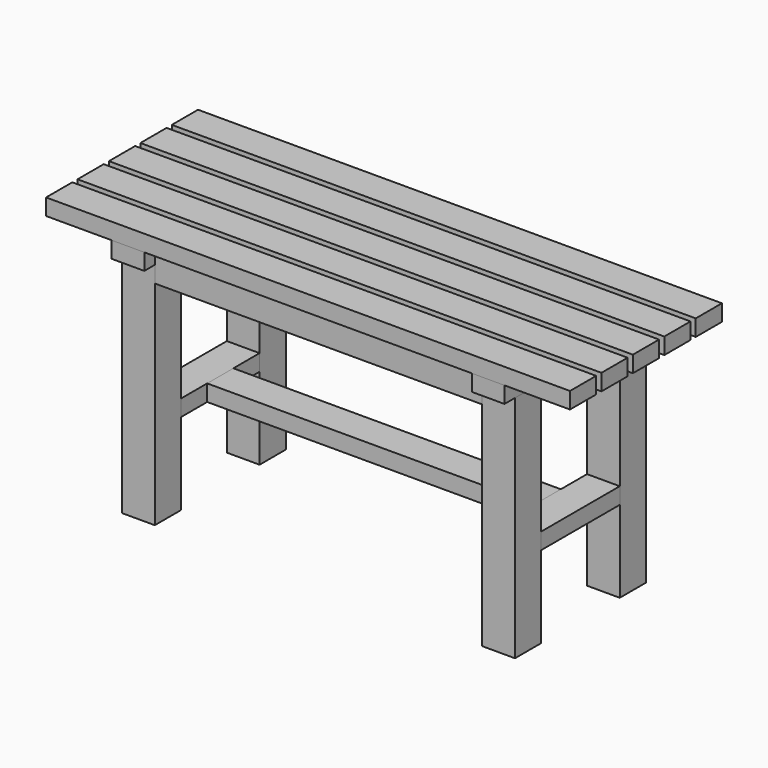
from build123d import *

# Parameters (mm, degrees)
F0_W      = 800
F0_H      = 50
F1_DEPTH  = 25
F2_W      = 50
F2_H      = 240
F2_H_2    = 50
F3_DEPTH  = 25
F4_W      = 50
F4_H      = 50
F5_DEPTH  = 350
F6_W      = 50
F6_H      = 50
F7_DEPTH  = 350
F8_W      = 50
F8_H      = 150
F9_DEPTH  = 25
F10_W     = 50
F10_H     = 150
F11_DEPTH = 25
F12_W     = 500.7233977318
F12_H     = 25
F13_DEPTH = 25
F15_W     = 25
F15_H     = 25
F16_DEPTH = 500


with BuildPart() as f1:
    # F0 (on Top) → F1 (new body)
    with BuildSketch(Plane.XY):
        with Locations((400, 265)):
            Rectangle(F0_W, F0_H)
    extrude(amount=F1_DEPTH)


with BuildPart() as f1b:
    # F0 (on Top) → F1, piece 2 (new body)
    with BuildSketch(Plane.XY):
        with Locations((400, 205)):
            Rectangle(F0_W, F0_H)
    extrude(amount=F1_DEPTH)


with BuildPart() as f1c:
    # F0 (on Top) → F1, piece 3 (new body)
    with BuildSketch(Plane.XY):
        with Locations((400, 145)):
            Rectangle(F0_W, F0_H)
    extrude(amount=F1_DEPTH)


with BuildPart() as f1d:
    # F0 (on Top) → F1, piece 4 (new body)
    with BuildSketch(Plane.XY):
        with Locations((400, 85)):
            Rectangle(F0_W, F0_H)
    extrude(amount=F1_DEPTH)


with BuildPart() as f1e:
    # F0 (on Top) → F1, piece 5 (new body)
    with BuildSketch(Plane.XY):
        with Locations((400, 25)):
            Rectangle(F0_W, F0_H)
    extrude(amount=F1_DEPTH)


with BuildPart() as f3:
    # F2 (on face) → F3 (new body)
    with BuildSketch(Plane(origin=(0, 0, 0), x_dir=(1, 0, 0), z_dir=(0, 0, -1))):
        with Locations((125, -170)):
            Rectangle(F2_W, F2_H)
        with Locations((125, -25)):
            Rectangle(F2_W, F2_H_2)
    extrude(amount=F3_DEPTH)


with BuildPart() as f3b:
    # F2 (on face) → F3, piece 2 (new body)
    with BuildSketch(Plane(origin=(0, 0, 0), x_dir=(1, 0, 0), z_dir=(0, 0, -1))):
        with Locations((675, -25)):
            Rectangle(F2_W, F2_H_2)
        with Locations((675, -170)):
            Rectangle(F2_W, F2_H)
    extrude(amount=F3_DEPTH)


with BuildPart() as f5:
    # F4 (on face) → F5 (new body)
    with BuildSketch(Plane(origin=(0, 0, -25), x_dir=(1, 0, 0), z_dir=(0, 0, -1))):
        with Locations((125, -245)):
            Rectangle(F4_W, F4_H)
    extrude(amount=F5_DEPTH)


with BuildPart() as f5b:
    # F4 (on face) → F5, piece 2 (new body)
    with BuildSketch(Plane(origin=(0, 0, -25), x_dir=(1, 0, 0), z_dir=(0, 0, -1))):
        with Locations((125, -45)):
            Rectangle(F4_W, F4_H)
    extrude(amount=F5_DEPTH)


with BuildPart() as f7:
    # F6 (on face) → F7 (new body)
    with BuildSketch(Plane(origin=(0, 0, -25), x_dir=(1, 0, 0), z_dir=(0, 0, -1))):
        with Locations((675, -45)):
            Rectangle(F6_W, F6_H)
    extrude(amount=F7_DEPTH)


with BuildPart() as f7b:
    # F6 (on face) → F7, piece 2 (new body)
    with BuildSketch(Plane(origin=(0, 0, -25), x_dir=(1, 0, 0), z_dir=(0, 0, -1))):
        with Locations((675, -245)):
            Rectangle(F6_W, F6_H)
    extrude(amount=F7_DEPTH)


with BuildPart() as f9:
    # F8 (on face) → F9 (new body)
    with BuildSketch(Plane(origin=(0, 0, -375), x_dir=(1, 0, 0), z_dir=(0, 0, -1))):
        with Locations((675, -145)):
            Rectangle(F8_W, F8_H)
    extrude(amount=F9_DEPTH)


with BuildPart() as f11:
    # F10 (on face) → F11 (new body)
    with BuildSketch(Plane(origin=(0, 0, -375), x_dir=(1, 0, 0), z_dir=(0, 0, -1))):
        with Locations((125, -145)):
            Rectangle(F10_W, F10_H)
    extrude(amount=F11_DEPTH)


with BuildPart() as f13:
    # F12 (on face) → F13 (new body)
    with BuildSketch(Plane(origin=(0, 0, -400), x_dir=(1, 0, 0), z_dir=(0, 0, -1))):
        with Locations((400.3616988659, -132.5)):
            Rectangle(F12_W, F12_H)
        with Locations((400.3616988659, -157.5)):
            Rectangle(F12_W, F12_H)
    extrude(amount=-F13_DEPTH)


with BuildPart() as f11_1:
    # F14: moved
    add(f11.part.moved(Location((0, 0, 150))))


with BuildPart() as f13_1:
    # F14: moved
    add(f13.part.moved(Location((0, 0, 150))))


with BuildPart() as f9_1:
    # F14: moved
    add(f9.part.moved(Location((0, 0, 150))))


with BuildPart() as f16:
    # F15 (on face) → F16 (new body)
    with BuildSketch(Plane.YZ.offset(150)):
        with Locations((32.5, -37.5)):
            Rectangle(F15_W, F15_H)
        with Locations((32.5, -12.5)):
            Rectangle(F15_W, F15_H)
    extrude(amount=F16_DEPTH)


with BuildPart() as f17_1:
    # F17: copy of F16
    add(f16.part.moved(Location((0, 225, 0))))


solid = Compound([f1.part, f1b.part, f1c.part, f1d.part, f1e.part, f3.part, f3b.part, f5.part, f5b.part, f7.part, f7b.part, f11_1.part, f13_1.part, f9_1.part, f16.part, f17_1.part])
